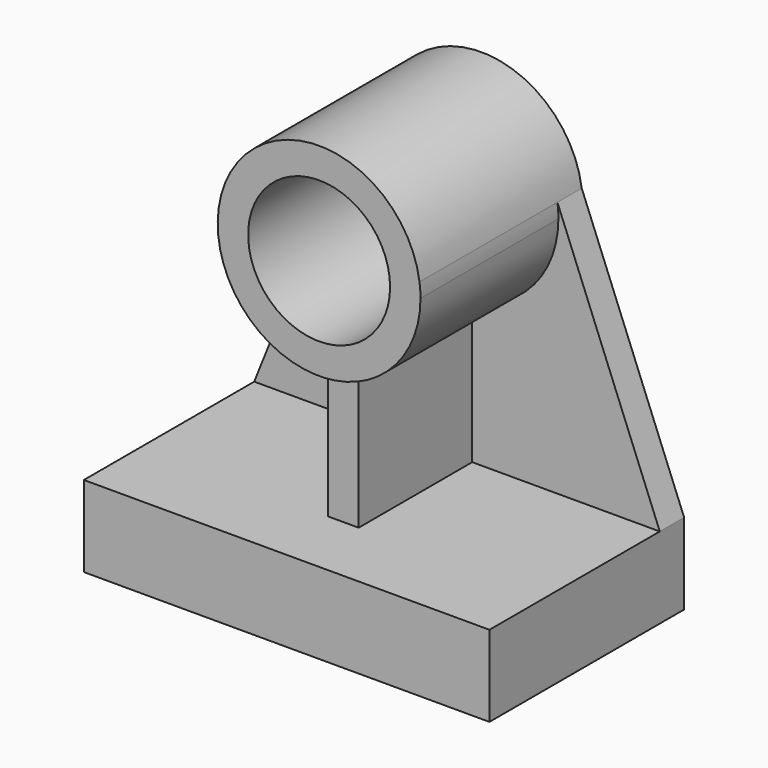
from build123d import *

# Parameters (mm, degrees)
F1_DEPTH = 152.4
F2_DEPTH = 19.05
F0_R     = 44.45
F3_DEPTH = 127
F4_DEPTH = 107.95


with BuildPart() as f1:
    # F0 (on Front) → F1 (new body)
    with BuildSketch(Plane.XZ):
        Polygon((79.34329, -243.498236), (79.34329, -192.698236), (-38.13171, -192.698236), (-57.18171, -192.698236), (-174.65671, -192.698236), (-174.65671, -243.498236), align=None)
    extrude(amount=F1_DEPTH)

    # F0 (on Front) → F2 (join)
    with BuildSketch(Plane.XZ):
        with BuildLine():
            ThreePointArc((-57.18171, -103.690338), (-98.575122, -78.850381), (-110.540249, -32.082083))
            Line((-110.540249, -32.082083), (-174.65671, -192.698236))
            Line((-174.65671, -192.698236), (-57.18171, -192.698236))
            Line((-57.18171, -192.698236), (-57.18171, -103.690338))
        make_face()
        with BuildLine():
            ThreePointArc((15.226829, -32.082083), (15.688987, -36.48468), (15.84329, -40.908777))
            ThreePointArc((15.84329, -40.908777), (0.494549, -82.305712), (-38.13171, -103.690338))
            Line((-38.13171, -103.690338), (-38.13171, -192.698236))
            Line((-38.13171, -192.698236), (79.34329, -192.698236))
            Line((79.34329, -192.698236), (15.226829, -32.082083))
        make_face()
    extrude(amount=F2_DEPTH)

    # F0 (on Front) → F3 (join)
    with BuildSketch(Plane.XZ):
        with BuildLine():
            ThreePointArc((-38.13171, -103.690338), (0.494549, -82.305712), (15.84329, -40.908777))
            ThreePointArc((15.84329, -40.908777), (15.688987, -36.48468), (15.226829, -32.082083))
            ThreePointArc((15.226829, -32.082083), (-47.65671, 22.591223), (-110.540249, -32.082083))
            ThreePointArc((-110.540249, -32.082083), (-98.575122, -78.850381), (-57.18171, -103.690338))
            ThreePointArc((-57.18171, -103.690338), (-47.65671, -104.408777), (-38.13171, -103.690338))
        make_face()
        with Locations((-47.65671, -40.908777)):
            Circle(F0_R, mode=Mode.SUBTRACT)
    extrude(amount=F3_DEPTH)

    # F0 (on Front) → F4 (join)
    with BuildSketch(Plane.XZ):
        with BuildLine():
            Line((-38.13171, -192.698236), (-38.13171, -103.690338))
            ThreePointArc((-38.13171, -103.690338), (-47.65671, -104.408777), (-57.18171, -103.690338))
            Line((-57.18171, -103.690338), (-57.18171, -192.698236))
            Line((-57.18171, -192.698236), (-38.13171, -192.698236))
        make_face()
    extrude(amount=F4_DEPTH)


solid = f1.part
